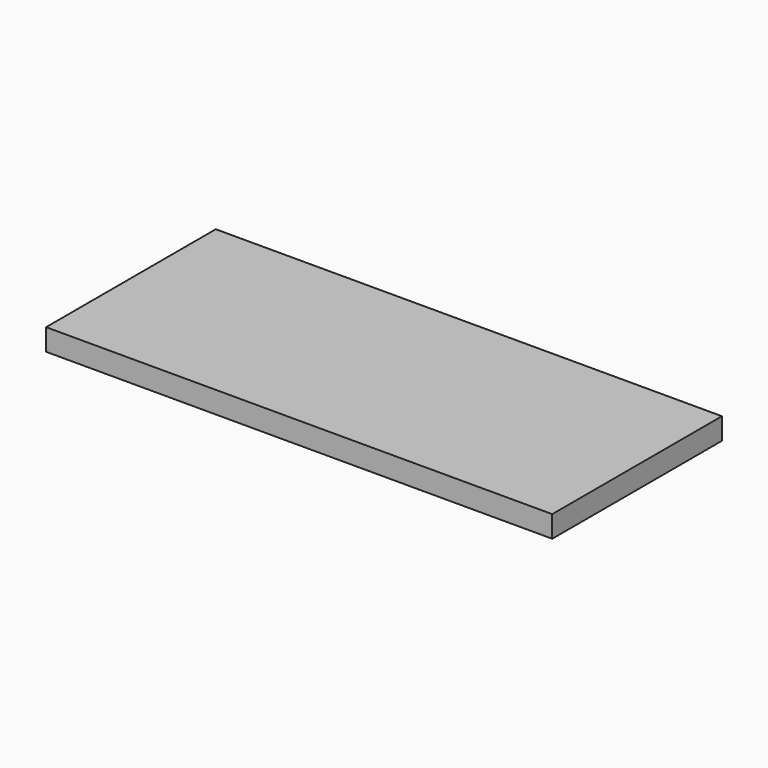
from build123d import *

# Parameters (mm, degrees)
SKETCH_W  = 420
SKETCH_H  = 176
PAD_DEPTH = 18


with BuildPart() as part:
    # Sketch → Pad (new body)
    with BuildSketch(Plane.XY):
        with Locations((-210, 88)):
            Rectangle(SKETCH_W, SKETCH_H)
    extrude(amount=PAD_DEPTH)


solid = part.part
